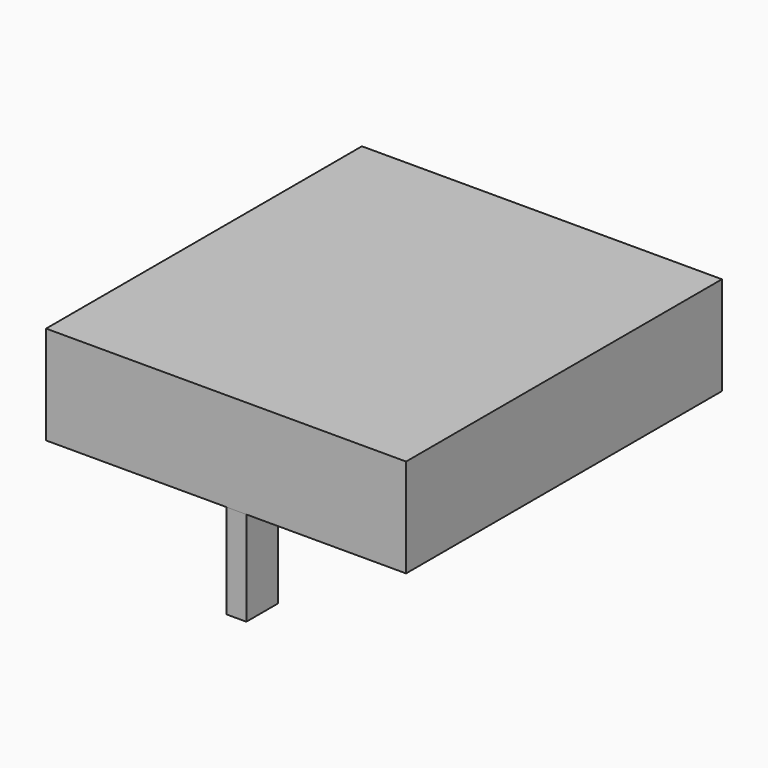
from build123d import *

# Parameters (mm, degrees)
F0_W     = 115.806826
F0_H     = 31.68565
F1_DEPTH = 127
F2_W     = 12.7
F2_H     = 30.48
F3_DEPTH = 6.35
F4_W     = 12.7
F4_H     = 30.48
F5_DEPTH = 12.7


with BuildPart() as f1:
    # F0 (on Front) → F1 (new body)
    with BuildSketch(Plane.XZ):
        Rectangle(F0_W, F0_H)
    extrude(amount=F1_DEPTH)

    # F4 (on Front) → F5 (join)
    with BuildSketch(Plane.XZ):
        with Locations((-52.00438, -29.596459)):
            Rectangle(F4_W, F4_H)
    extrude(amount=F5_DEPTH)


with BuildPart() as f3:
    # F2 (on Right) → F3 (new body)
    with BuildSketch(Plane.YZ):
        with Locations((-120.430645, -31.135114)):
            Rectangle(F2_W, F2_H)
    extrude(amount=F3_DEPTH)


solid = Compound([f1.part, f3.part])
